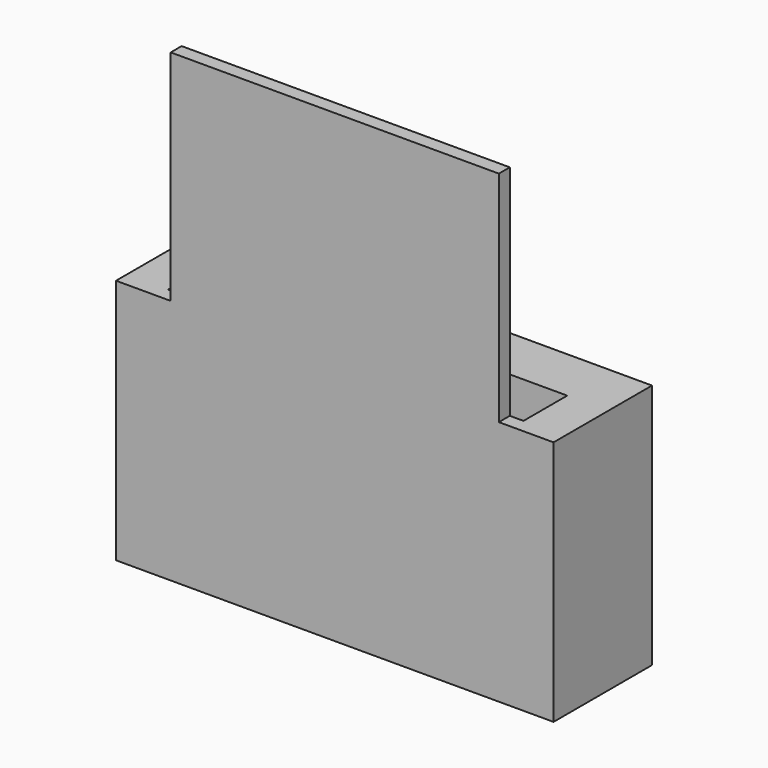
from build123d import *

# Parameters (mm, degrees)
F0_W     = 16
F0_H     = 4.5
F1_DEPTH = 9
F2_W     = 13
F2_H     = 2
F3_DEPTH = 7
F4_W     = 12
F4_H     = 0.5
F5_DEPTH = 8


with BuildPart() as f1:
    # F0 (on Top) → F1 (new body)
    with BuildSketch(Plane.XY):
        Rectangle(F0_W, F0_H)
    extrude(amount=F1_DEPTH)

    # F2 (on face) → F3 (cut)
    with BuildSketch(Plane.XY.offset(9)):
        with Locations((0, -0.75)):
            Rectangle(F2_W, F2_H)
    extrude(amount=-F3_DEPTH, mode=Mode.SUBTRACT)

    # F4 (on face) → F5 (join)
    with BuildSketch(Plane.XY.offset(9)):
        with Locations((0, -2)):
            Rectangle(F4_W, F4_H)
    extrude(amount=F5_DEPTH)


solid = f1.part
